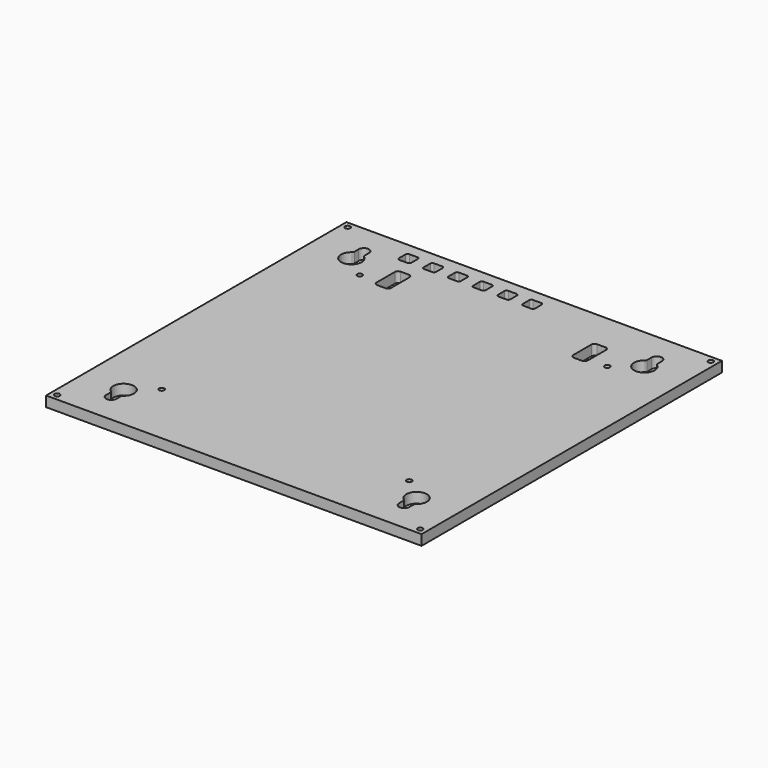
from build123d import *

# Parameters (mm, degrees)
SKETCH021_W   = 231.14
SKETCH021_H   = 231.14
SKETCH021_R   = 1.5875
SKETCH021_W_2 = 7.62
SKETCH021_H_2 = 7.62
PAD003_DEPTH  = 6.35
FILLET_R      = 1.27
FILLET001_R   = 1.27
SKETCH025_W   = 9
SKETCH025_H   = 18
POCKET_DEPTH  = 6.35
FILLET002_R   = 2


with BuildPart() as part:
    # Sketch021 → Pad003 (new body)
    with BuildSketch(Plane.XY):
        with Locations((0, -18.161)):
            Rectangle(SKETCH021_W, SKETCH021_H)
        with Locations((-111.76, -129.921)):
            Circle(SKETCH021_R, mode=Mode.SUBTRACT)
        with Locations((111.76, -129.921)):
            Circle(SKETCH021_R, mode=Mode.SUBTRACT)
        with Locations((111.76, 93.599)):
            Circle(SKETCH021_R, mode=Mode.SUBTRACT)
        with Locations((-111.76, 93.599)):
            Circle(SKETCH021_R, mode=Mode.SUBTRACT)
        with Locations((-76.2, 58.42)):
            Circle(SKETCH021_R, mode=Mode.SUBTRACT)
        with Locations((76.2, 58.42)):
            Circle(SKETCH021_R, mode=Mode.SUBTRACT)
        with Locations((76.2, -93.98)):
            Circle(SKETCH021_R, mode=Mode.SUBTRACT)
        with Locations((-76.2, -93.98)):
            Circle(SKETCH021_R, mode=Mode.SUBTRACT)
        with BuildLine():
            Line((-86.995, 74.968261), (-86.995, 78.994))
            ThreePointArc((-86.995, 78.994), (-90.17, 82.169), (-93.345, 78.994))
            Line((-93.345, 78.994), (-93.345, 74.968261))
            ThreePointArc((-93.345, 74.968261), (-90.17, 63.119), (-86.995, 74.968261))
        make_face(mode=Mode.SUBTRACT)
        with Locations((7.62, 86.36)):
            Rectangle(SKETCH021_W_2, SKETCH021_H_2, mode=Mode.SUBTRACT)
        with Locations((-22.86, 86.36)):
            Rectangle(SKETCH021_W_2, SKETCH021_H_2, mode=Mode.SUBTRACT)
        with Locations((-38.1, 86.36)):
            Rectangle(SKETCH021_W_2, SKETCH021_H_2, mode=Mode.SUBTRACT)
        with Locations((-7.62, 86.36)):
            Rectangle(SKETCH021_W_2, SKETCH021_H_2, mode=Mode.SUBTRACT)
        with Locations((-68.58, 86.36)):
            Rectangle(SKETCH021_W_2, SKETCH021_H_2, mode=Mode.SUBTRACT)
        with Locations((-53.34, 86.36)):
            Rectangle(SKETCH021_W_2, SKETCH021_H_2, mode=Mode.SUBTRACT)
        with BuildLine():
            Line((86.995, 78.994), (86.995, 74.968261))
            ThreePointArc((86.995, 74.968261), (90.17, 63.119), (93.345, 74.968261))
            Line((93.345, 78.994), (93.345, 74.968261))
            ThreePointArc((93.345, 78.994), (90.17, 82.169), (86.995, 78.994))
        make_face(mode=Mode.SUBTRACT)
        with BuildLine():
            Line((-86.995, -111.290261), (-86.995, -115.316))
            ThreePointArc((-93.345, -115.316), (-90.17, -118.491), (-86.995, -115.316))
            Line((-93.345, -115.316), (-93.345, -111.290261))
            ThreePointArc((-86.995, -111.290261), (-90.17, -99.441), (-93.345, -111.290261))
        make_face(mode=Mode.SUBTRACT)
        with BuildLine():
            Line((93.345, -111.290261), (93.345, -115.316))
            ThreePointArc((86.995, -115.316), (90.17, -118.491), (93.345, -115.316))
            Line((86.995, -115.316), (86.995, -111.290261))
            ThreePointArc((93.345, -111.290261), (90.17, -99.441), (86.995, -111.290261))
        make_face(mode=Mode.SUBTRACT)
    extrude(amount=-PAD003_DEPTH)

    # Fillet
    fillet_edges = [part.edges().sort_by_distance(p)[0] for p in [
        (-72.39, 90.17, -3.175),
        (-64.77, 90.17, -3.175),
        (-64.77, 82.55, -3.175),
        (-72.39, 82.55, -3.175),
        (-57.15, 90.17, -3.175),
        (-49.53, 90.17, -3.175),
        (-49.53, 82.55, -3.175),
        (-57.15, 82.55, -3.175),
        (-41.91, 90.17, -3.175),
        (-34.29, 90.17, -3.175),
        (-34.29, 82.55, -3.175),
        (-41.91, 82.55, -3.175),
        (-26.67, 90.17, -3.175),
        (-19.05, 90.17, -3.175),
        (-19.05, 82.55, -3.175),
        (-26.67, 82.55, -3.175),
        (-11.43, 90.17, -3.175),
        (-3.81, 90.17, -3.175),
        (-3.81, 82.55, -3.175),
        (-11.43, 82.55, -3.175),
        (3.81, 90.17, -3.175),
        (11.43, 90.17, -3.175),
        (11.43, 82.55, -3.175),
        (3.81, 82.55, -3.175),
    ]]
    fillet(fillet_edges, radius=FILLET_R)

    # Fillet001
    fillet001_edges = [part.edges().sort_by_distance(p)[0] for p in [
        (-93.345, 74.968261, -3.175),
        (-86.995, 74.968261, -3.175),
        (93.345, 74.968261, -3.175),
        (86.995, 74.968261, -3.175),
        (93.345, -111.290261, -3.175),
        (86.995, -111.290261, -3.175),
        (-93.345, -111.290261, -3.175),
        (-86.995, -111.290261, -3.175),
    ]]
    fillet(fillet001_edges, radius=FILLET001_R)

    # Sketch025 (on Face86 of Fillet001) → Pocket (cut)
    with BuildSketch(Plane(origin=(0, 0, -6.35), x_dir=(1, 0, 0), z_dir=(0, 0, -1))):
        with Locations((60.5, -64.409)):
            Rectangle(SKETCH025_W, SKETCH025_H)
    pocket = extrude(amount=-POCKET_DEPTH, mode=Mode.SUBTRACT)

    # Mirrored: Pocket across YZ
    add(pocket.mirror(Plane.YZ), mode=Mode.SUBTRACT)

    # Fillet002
    fillet002_edges = [part.edges().sort_by_distance(p)[0] for p in [
        (-65, 73.409, -3.175),
        (-56, 73.409, -3.175),
        (-56, 55.409, -3.175),
        (-65, 55.409, -3.175),
        (56, 73.409, -3.175),
        (65, 73.409, -3.175),
        (65, 55.409, -3.175),
        (56, 55.409, -3.175),
    ]]
    fillet(fillet002_edges, radius=FILLET002_R)


with BuildPart() as part_1:
    # Body030 placement: moved
    add(part.part.moved(Location((0, 0, -2.54))))


solid = part_1.part
